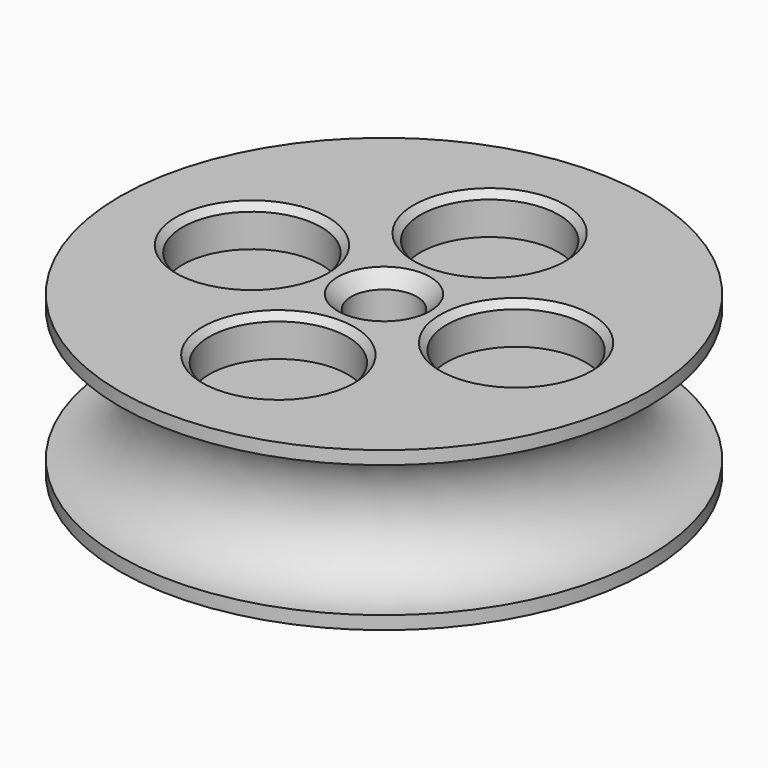
from build123d import *

# Parameters (mm, degrees)
TORUS_R         = 5
SKETCH_R        = 20
PAD_DEPTH       = 12
SKETCH001_R     = 2.5
POCKET_DEPTH    = 12
SKETCH002_R     = 5.25
POCKET001_DEPTH = 3
CHAMFER_SIZE    = 0.5
CHAMFER001_SIZE = 1


with BuildPart() as torus:
    # Torus → Torus (revolve)
    with BuildSketch(Plane(origin=(0, 0, 6), x_dir=(1, 0, 0), z_dir=(0, -1, 0))):
        with Locations((20, 0)):
            Circle(TORUS_R)
    revolve(axis=Axis((0, 0, 6), (0, 0, 1)))


with BuildPart() as cut:
    # Sketch → Pad (new body)
    with BuildSketch(Plane.XY):
        Circle(SKETCH_R)
    extrude(amount=PAD_DEPTH)

    # Sketch001 (on Face3 of Pad) → Pocket (cut)
    with BuildSketch(Plane.XY.offset(12)):
        Circle(SKETCH001_R)
    extrude(amount=-POCKET_DEPTH, mode=Mode.SUBTRACT)

    # Sketch002 (on Face3 of Pocket) → Pocket001 (cut)
    with BuildSketch(Plane.XY.offset(12)):
        with Locations((-10, 0)):
            Circle(SKETCH002_R)
        with Locations((10, 0)):
            Circle(SKETCH002_R)
        with Locations((0, 10)):
            Circle(SKETCH002_R)
        with Locations((0, -10)):
            Circle(SKETCH002_R)
    extrude(amount=-POCKET001_DEPTH, mode=Mode.SUBTRACT)

    # Chamfer
    chamfer_edges = [cut.edges().sort_by_distance(p)[0] for p in [
        (-5.25, 10, 12),
        (-15.25, 0, 12),
        (-5.25, -10, 12),
        (4.75, 0, 12),
    ]]
    chamfer(chamfer_edges, length=CHAMFER_SIZE)

    # Chamfer001
    chamfer001_edges = [cut.edges().sort_by_distance(p)[0] for p in [
        (-2.5, 0, 12),
        (-2.5, 0, 0),
    ]]
    chamfer(chamfer001_edges, length=CHAMFER001_SIZE)

    # Cut: cut Torus
    add(torus.part, mode=Mode.SUBTRACT)


solid = cut.part
